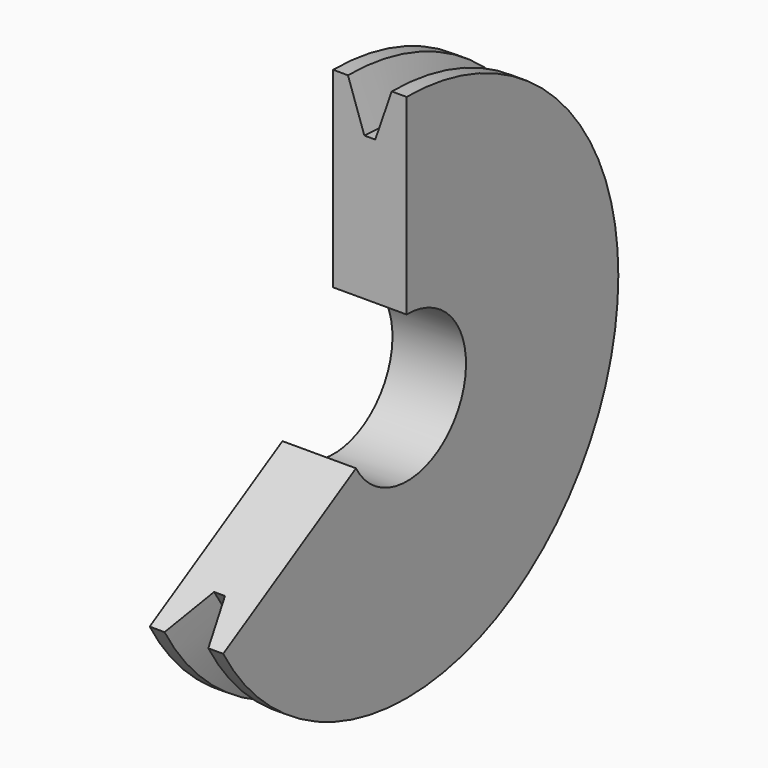
from build123d import *

# Parameters (mm, degrees)
F1_ANGLE = 240
F3_D     = 31.75


with BuildPart() as f1:
    # F0 (on Front) → F1 (revolve)
    with BuildSketch(Plane.XZ):
        Polygon((0, 57.15), (0, 0), (15.875, 0), (15.875, 57.15), (12.6619, 57.15), (9.1110559207, 46.8376), (6.7639440793, 46.8376), (3.2131, 57.15), align=None)
    revolve(axis=Axis((7.9375, 0, 0), (-1, 0, 0)), revolution_arc=F1_ANGLE)

    # F3 (through all)
    with Locations(Plane.YZ.offset(15.875)):
        with Locations((0.1627872261, -0.0813936931)):
            Hole(F3_D / 2)


solid = f1.part
